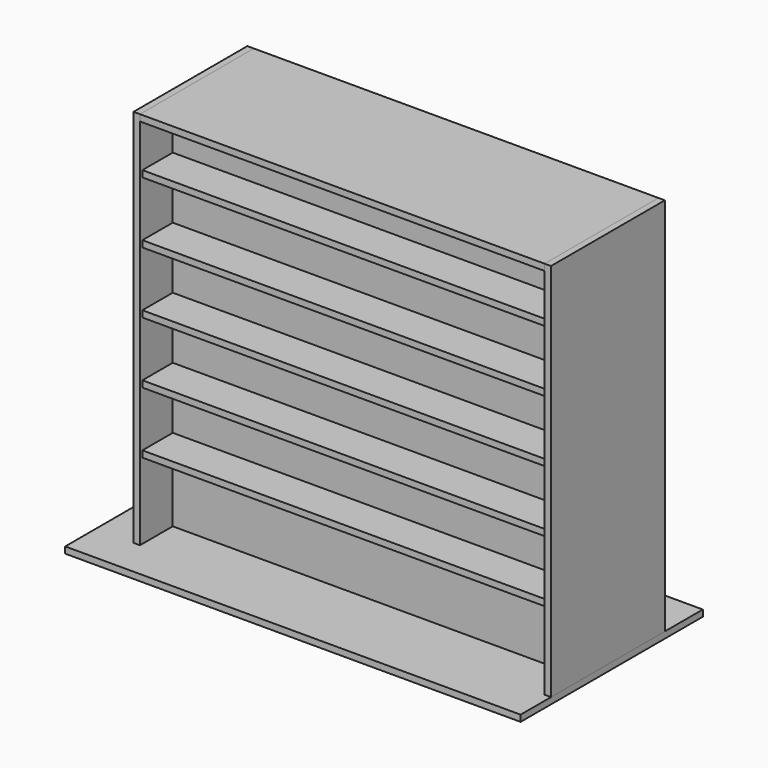
from build123d import *

# Parameters (mm, degrees)
F0_W      = 1219.2
F0_H      = 609.6
F1_DEPTH  = 17.145
F2_W      = 17.145
F2_H      = 381
F3_DEPTH  = 1016
F4_W      = 1083.31
F4_H      = 17.145
F5_DEPTH  = 998.855
F6_W      = 17.145
F6_H      = 381
F7_DEPTH  = 1016
F8_W      = 1083.31
F8_H      = 17.145
F9_DEPTH  = 236.855
F10_W     = 1083.31
F10_H     = 17.145
F11_DEPTH = 101.6
F12_W     = 381
F12_H     = 17.145
F13_DEPTH = 1083.31


with BuildPart() as f1:
    # F0 (on Top) → F1 (new body)
    with BuildSketch(Plane.XY):
        with Locations((609.6, 304.8)):
            Rectangle(F0_W, F0_H)
    extrude(amount=F1_DEPTH)


with BuildPart() as f3:
    # F2 (on face) → F3 (new body)
    with BuildSketch(Plane.XY.offset(17.145)):
        with Locations((110.1725, 292.1)):
            Rectangle(F2_W, F2_H)
    extrude(amount=F3_DEPTH)


with BuildPart() as f5:
    # F4 (on face) → F5 (new body)
    with BuildSketch(Plane.XY.offset(17.145)):
        with Locations((660.4, 220.0275)):
            Rectangle(F4_W, F4_H)
    extrude(amount=F5_DEPTH)


with BuildPart() as f7:
    # F6 (on face) → F7 (new body)
    with BuildSketch(Plane.XY.offset(17.145)):
        with Locations((1210.6275, 292.1)):
            Rectangle(F6_W, F6_H)
    extrude(amount=F7_DEPTH)


with BuildPart() as f9:
    # F8 (on face) → F9 (new body)
    with BuildSketch(Plane(origin=(0, 228.6, 0), x_dir=(-1, 0, 0), z_dir=(0, 1, 0))):
        with Locations((-660.4, 330.5175)):
            Rectangle(F8_W, F8_H)
        with Locations((-660.4, 584.5175)):
            Rectangle(F8_W, F8_H)
        with Locations((-660.4, 838.5175)):
            Rectangle(F8_W, F8_H)
    extrude(amount=F9_DEPTH)


with BuildPart() as f11:
    # F10 (on face) → F11 (new body)
    with BuildSketch(Plane.XZ.offset(-211.455)):
        with Locations((660.4, 889.3175)):
            Rectangle(F10_W, F10_H)
        with Locations((660.4, 724.2175)):
            Rectangle(F10_W, F10_H)
        with Locations((660.4, 559.1175)):
            Rectangle(F10_W, F10_H)
        with Locations((660.4, 394.0175)):
            Rectangle(F10_W, F10_H)
        with Locations((660.4, 228.9175)):
            Rectangle(F10_W, F10_H)
    extrude(amount=F11_DEPTH)


with BuildPart() as f13:
    # F12 (on face) → F13 (new body, through all)
    with BuildSketch(Plane.YZ.offset(118.745)):
        with Locations((292.1, 1024.5725)):
            Rectangle(F12_W, F12_H)
    extrude(amount=F13_DEPTH)


solid = Compound([f1.part, f3.part, f5.part, f7.part, f9.part, f11.part, f13.part])
